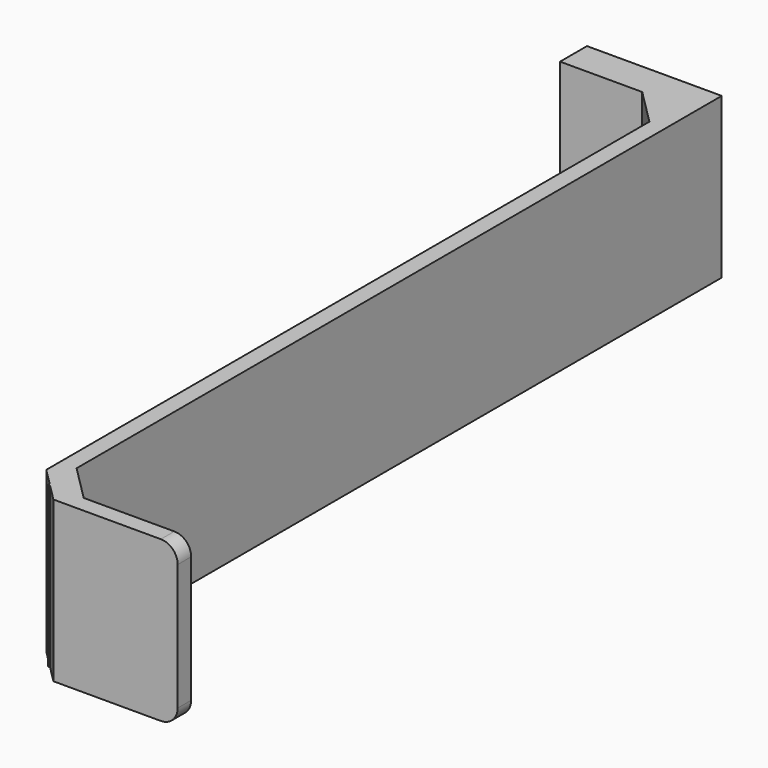
from build123d import *

# Parameters (mm, degrees)
F1_DEPTH = 9.5
F2_R     = 1


with BuildPart() as f1:
    # F0 (on Top) → F1 (new body)
    with BuildSketch(Plane.XY):
        Polygon((-2.12132, 49), (0, 49), (0, 46.87868), (0, 2.12132), (1, 1.12132), (1, 3.12132), (1, 51), (-7, 51), (-7, 49), align=None)
        Polygon((0, 46.87868), (0, 49), (-2.12132, 49), align=None)
        Polygon((1.12132, 1), (1, 1.12132), (1, 1), align=None)
        Polygon((1, 3.12132), (1, 1.12132), (1.12132, 1), (3.12132, 1), align=None)
        Polygon((3.12132, 1), (1.12132, 1), (2.12132, 0), (9.5, 0), (9.5, 1), align=None)
    extrude(amount=F1_DEPTH)

    # F2
    f2_edges = [f1.edges().sort_by_distance(p)[0] for p in [
        (9.5, 0.5, 9.5),
        (9.5, 0.5, 0),
    ]]
    fillet(f2_edges, radius=F2_R)


solid = f1.part
